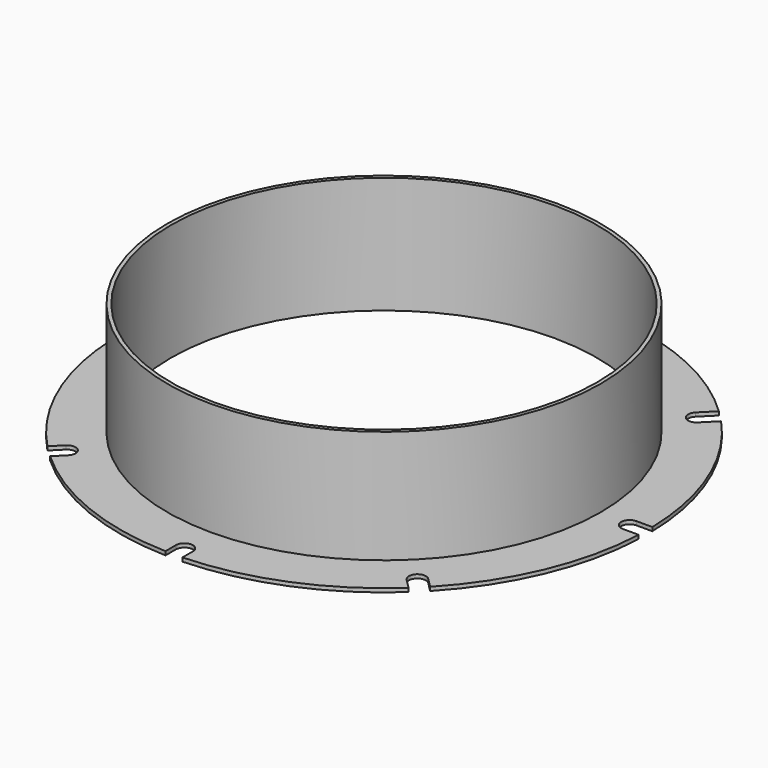
from build123d import *

# Parameters (mm, degrees)
F0_R     = 140
F0_R_2   = 113
F1_DEPTH = 2
F2_R     = 115
F2_R_2   = 113
F3_DEPTH = 60
F5_DEPTH = 2.001


with BuildPart() as f1:
    # F0 (on Top) → F1 (new body)
    with BuildSketch(Plane.XY):
        Circle(F0_R)
        Circle(F0_R_2, mode=Mode.SUBTRACT)
    extrude(amount=F1_DEPTH)

    # F2 (on face) → F3 (join)
    with BuildSketch(Plane.XY.offset(2)):
        Circle(F2_R)
        Circle(F2_R_2, mode=Mode.SUBTRACT)
    extrude(amount=F3_DEPTH)

    # F4 (on face) → F5 (cut, through all)
    with BuildSketch(Plane.XY.offset(2)):
        with BuildLine():
            ThreePointArc((-4.5, 129.5), (0, 125), (4.5, 129.5))
            Line((4.5, 129.5), (4.5, 139.9276598818))
            ThreePointArc((4.5, 139.9276598818), (2.2502907086, 139.9819138022), (0, 140))
            ThreePointArc((0, 140), (-2.2502907086, 139.9819138022), (-4.5, 139.9276598818))
            Line((-4.5, 139.9276598818), (-4.5, 129.5))
        make_face()
        with BuildLine():
            ThreePointArc((102.9190976917, 94.9086894353), (99.8151721136, 98.1678736448), (96.6080873732, 101.3256011781))
            Line((96.6080873732, 101.3256011781), (89.6990082559, 94.4165220608))
            ThreePointArc((89.6990082559, 94.4165220608), (89.6990082559, 88.0525610302), (96.0629692866, 88.0525610302))
            Line((96.0629692866, 88.0525610302), (102.9190976917, 94.9086894353))
        make_face()
        with BuildLine():
            ThreePointArc((140, 0), (139.9919631357, 1.500085806), (139.9678534654, 2.9999993836))
            Line((139.9678534654, 2.9999993836), (131.5000006164, 2.9999993836))
            ThreePointArc((131.5000006164, 2.9999993836), (127.0000006164, -1.5000006164), (131.5000006164, -6.0000006164))
            Line((131.5000006164, -6.0000006164), (139.8713694528, -6.0000006164))
            ThreePointArc((139.8713694528, -6.0000006164), (139.9678386691, -3.000689638), (140, 0))
        make_face()
        with BuildLine():
            ThreePointArc((95.1684959742, -102.6789042307), (98.41976806, -99.5668079985), (101.5693267645, -96.3518129596))
            Line((101.5693267645, -96.3518129596), (96.4165226772, -91.1990088723))
            ThreePointArc((96.4165226772, -91.1990088723), (90.0525616465, -91.1990088723), (90.0525616465, -97.562969903))
            Line((90.0525616465, -97.562969903), (95.1684959742, -102.6789042306))
        make_face()
        with BuildLine():
            Line((-4, -133.0000012327), (-4, -139.9428454763))
            ThreePointArc((-4, -139.9428454763), (0.5002584944, -139.9991062166), (5, -139.9106857963))
            Line((5, -139.9106857963), (5, -133.0000012327))
            ThreePointArc((5, -133.0000012327), (0.5, -128.5000012327), (-4, -133.0000012327))
        make_face()
        with BuildLine():
            Line((-95.5629692866, -91.5525622629), (-100.97984248, -96.9694354563))
            ThreePointArc((-100.97984248, -96.9694354563), (-97.8105621043, -100.1653330292), (-94.5401870301, -103.2577020677))
            Line((-94.5401870301, -103.2577020677), (-89.1990082559, -97.9165232936))
            ThreePointArc((-89.1990082559, -97.9165232936), (-89.1990082559, -91.5525622629), (-95.5629692866, -91.5525622629))
        make_face()
        with BuildLine():
            Line((-131.0000006164, 2.4999993836), (-139.9776768027, 2.4999993836))
            ThreePointArc((-139.9776768027, 2.4999993836), (-139.9856987687, -2.0010347926), (-139.8490257098, -6.5000006164))
            Line((-139.8490257098, -6.5000006164), (-131.0000006164, -6.5000006164))
            ThreePointArc((-131.0000006164, -6.5000006164), (-126.5000006164, -2.0000006164), (-131.0000006164, 2.4999993836))
        make_face()
        with BuildLine():
            Line((-89.5525616465, 94.0629686703), (-96.7140546298, 101.2244616536))
            ThreePointArc((-96.7140546298, 101.2244616536), (-99.9178627776, 98.063350432), (-103.01840372, 94.8008886824))
            Line((-103.01840372, 94.8008886824), (-95.9165226772, 87.6990076396))
            ThreePointArc((-95.9165226772, 87.6990076396), (-89.5525616465, 87.6990076396), (-89.5525616465, 94.0629686703))
        make_face()
    extrude(amount=-F5_DEPTH, mode=Mode.SUBTRACT)


solid = f1.part
